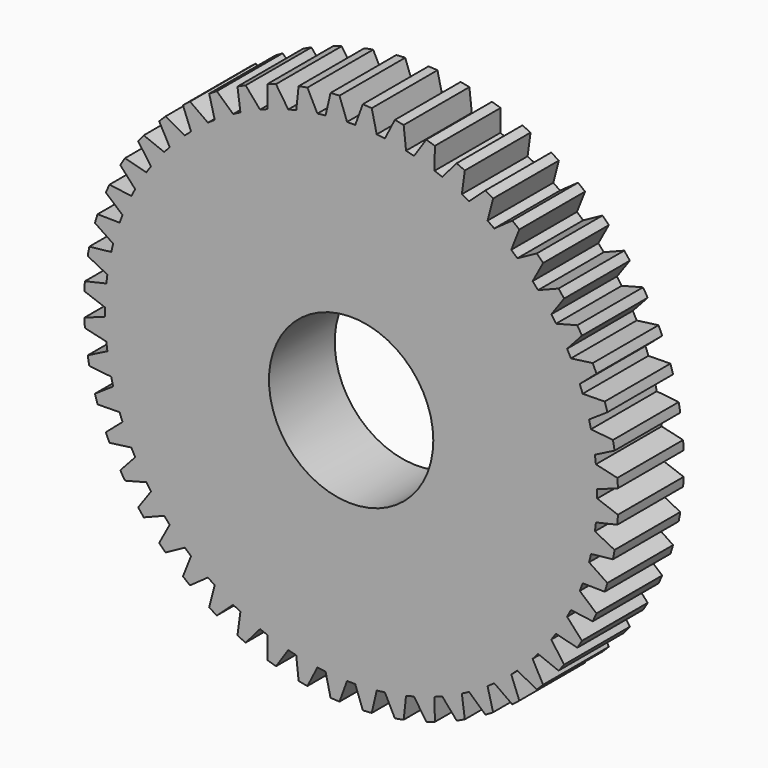
from build123d import *

# Parameters (mm, degrees)
F0_R     = 32.5
F0_R_2   = 10
F1_DEPTH = 10
F3_DEPTH = 25
F4_COUNT = 52


with BuildPart() as f1:
    # F0 (on Front) → F1 (new body)
    with BuildSketch(Plane.XZ):
        Circle(F0_R)
        with Locations((0, -0.7785461036)):
            Circle(F0_R_2, mode=Mode.SUBTRACT)
    extrude(amount=F1_DEPTH)

    # F2 (on face) → F3 (cut)
    with BuildSketch(Plane.XZ.offset(10)):
        with BuildLine():
            Line((-0.5, 29.95), (0, 29.95))
            Line((0, 29.95), (0, 32.5))
            ThreePointArc((0, 32.5), (-0.7086071686, 32.4922740952), (-1.4168774369, 32.4691000542))
            Line((-1.4168774369, 32.4691000542), (-0.5, 29.95))
        make_face()
        with BuildLine():
            Line((0, 32.5), (0, 29.95))
            Line((0, 29.95), (0.5, 29.95))
            Line((0.5, 29.95), (1.4168774369, 32.4691000542))
            ThreePointArc((1.4168774369, 32.4691000542), (0.7086071686, 32.4922740952), (0, 32.5))
        make_face()
    f3 = extrude(amount=-F3_DEPTH, mode=Mode.SUBTRACT)

    # F4: F3 ×52 about axis
    f4_axis = Axis((0, 0, 0), (0, 1, 0))
    for i in range(1, F4_COUNT):
        add(f3.rotate(f4_axis, i * 360 / F4_COUNT), mode=Mode.SUBTRACT)


solid = f1.part
